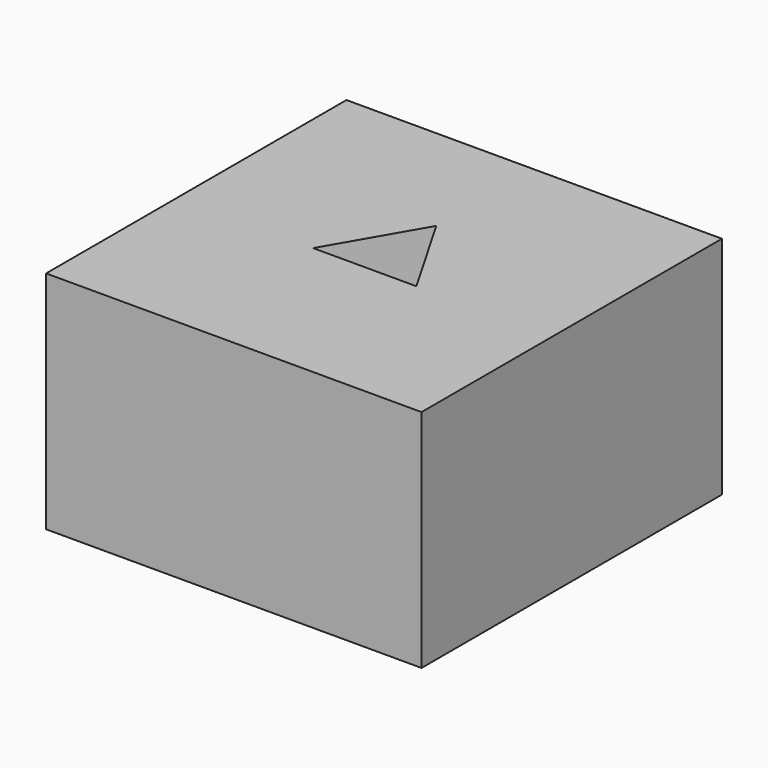
from build123d import *

# Parameters (mm, degrees)
F0_W     = 200
F0_H     = 200
F1_DEPTH = 120
F3_DEPTH = 50


with BuildPart() as f1:
    # F0 (on Top) → F1 (new body)
    with BuildSketch(Plane.XY):
        Rectangle(F0_W, F0_H)
    extrude(amount=F1_DEPTH)

    # F2 (on face) → F3 (cut)
    with BuildSketch(Plane.XY.offset(120)):
        Polygon((-27.5, -12.817176), (27.5, -12.817176), (0, 34.814221), align=None)
    extrude(amount=-F3_DEPTH, mode=Mode.SUBTRACT)


solid = f1.part
